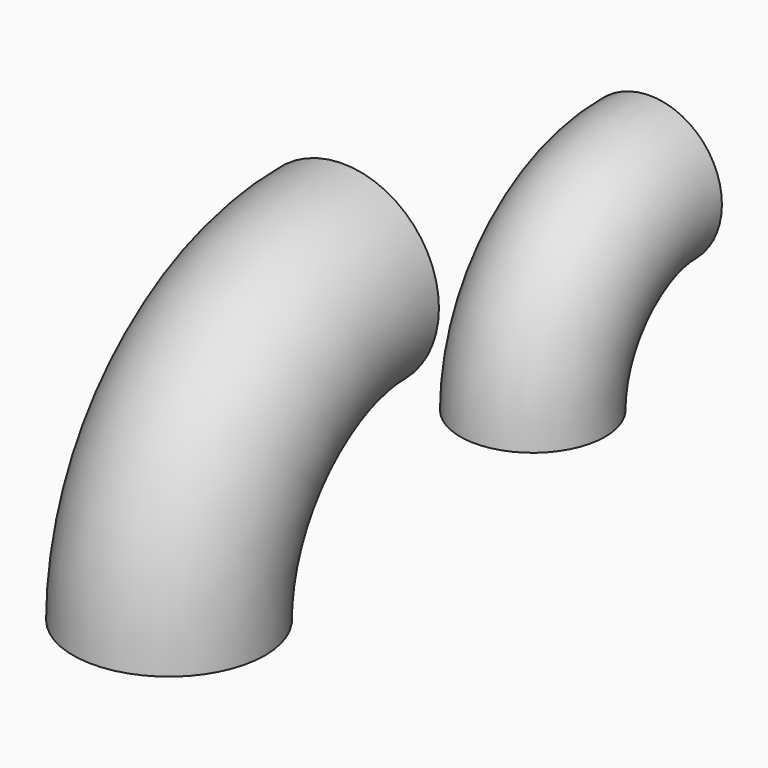
from build123d import *

# Parameters (mm, degrees)
F2_R = 16
F0_R = 21.2
F6_T = -3.6


with BuildPart() as f4:
    # F4: sweep along a path in F3
    with BuildLine(Plane.YZ) as f4_path:
        ThreePointArc((100.3932839383, 0), (109.8426855074, 22.703975652), (132.6101908388, 31.9992648571))
    # F2 (on Top) → F4 (sweep)
    with BuildSketch(Plane.XY):
        with Locations((0, 100.3932839383)):
            Circle(F2_R)
    sweep(path=f4_path.line)


with BuildPart() as f5:
    # F5: sweep along a path in F1
    with BuildLine(Plane.YZ) as f5_path:
        ThreePointArc((48, 48), (14.058874503, 33.941125497), (0, 0))
    # F0 (on Top) → F5 (sweep)
    with BuildSketch(Plane.XY):
        Circle(F0_R)
    sweep(path=f5_path.line)

    # F6
    f6_openings = [f5.faces().sort_by_distance(p)[0] for p in [
        (0, 48, 48),
        (0, 0, 0),
    ]]
    offset(amount=F6_T, openings=f6_openings)


solid = Compound([f4.part, f5.part])
